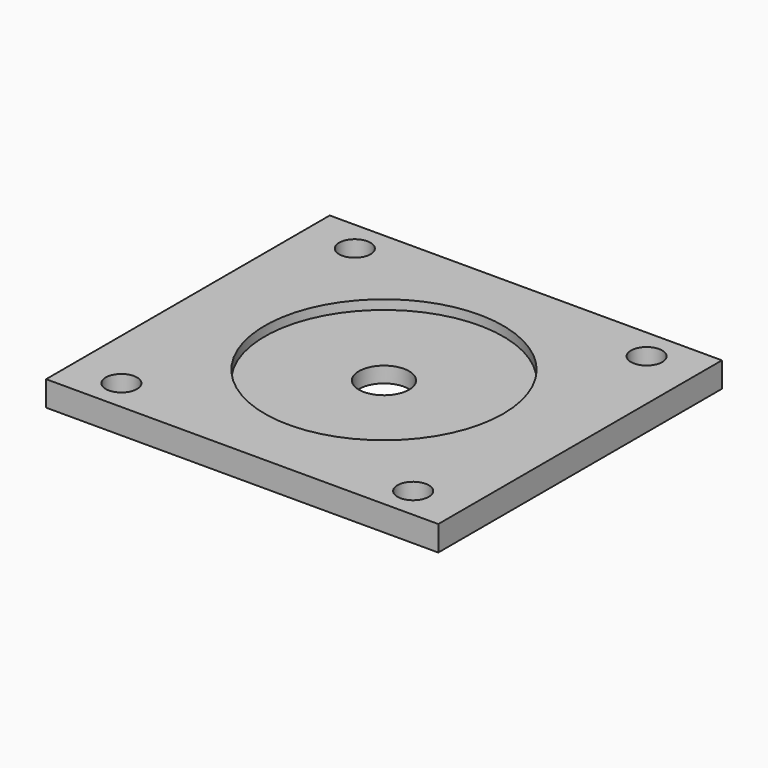
from build123d import *

# Parameters (mm, degrees)
SKETCH_W      = 62.5
SKETCH_H      = 56.5
SKETCH_R      = 2.5
SKETCH_R_2    = 4
PAD_DEPTH     = 4
SKETCH001_R   = 19
SKETCH001_R_2 = 4
POCKET_DEPTH  = 1.5


with BuildPart() as part:
    # Sketch → Pad (new body)
    with BuildSketch(Plane.XY):
        Rectangle(SKETCH_W, SKETCH_H)
        with Locations((23.25, -23.25)):
            Circle(SKETCH_R, mode=Mode.SUBTRACT)
        with Locations((23.25, 23.25)):
            Circle(SKETCH_R, mode=Mode.SUBTRACT)
        with Locations((-23.25, 23.25)):
            Circle(SKETCH_R, mode=Mode.SUBTRACT)
        with Locations((-23.25, -23.25)):
            Circle(SKETCH_R, mode=Mode.SUBTRACT)
        Circle(SKETCH_R_2, mode=Mode.SUBTRACT)
    extrude(amount=PAD_DEPTH)

    # Sketch001 (on Face11 of Pad) → Pocket (cut)
    with BuildSketch(Plane.XY.offset(4)):
        Circle(SKETCH001_R)
        Circle(SKETCH001_R_2, mode=Mode.SUBTRACT)
    extrude(amount=-POCKET_DEPTH, mode=Mode.SUBTRACT)


solid = part.part
